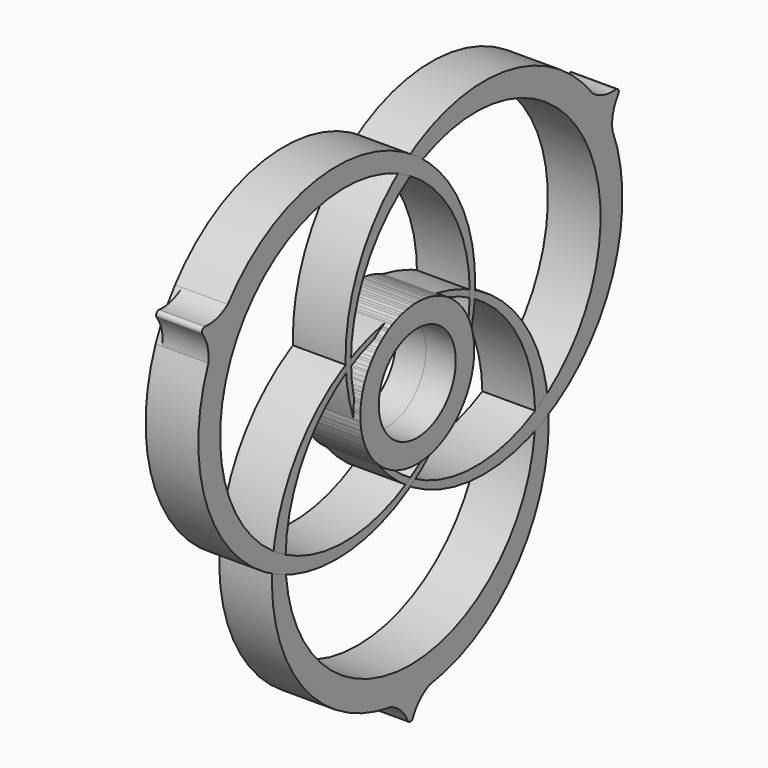
from build123d import *

# Parameters (mm, degrees)
F0_R          = 10.5
F1_DEPTH      = 6.5
F1_DEPTH_BACK = 6.5
F2_DEPTH      = 5
F2_DEPTH_BACK = 6.5
F3_DEPTH      = 5
F3_DEPTH_BACK = 5
F4_COUNT      = 3
F5_R          = 0.762


with BuildPart() as f1:
    # F0 (on Right) → F1 (new body, two sides)
    with BuildSketch(Plane.YZ) as f1_sk:
        with BuildLine():
            ThreePointArc((-9.903586, 11.961883), (-6.609432, -14.052866), (15.529573, 0))
            ThreePointArc((15.529573, 0), (14.052866, 6.609432), (9.903586, 11.961883))
            ThreePointArc((9.903586, 11.961883), (8.437863, 13.037259), (6.856513, 13.933983))
            ThreePointArc((6.856513, 13.933983), (0, 15.529573), (-6.856513, 13.933983))
            ThreePointArc((-6.856513, 13.933983), (-8.437863, 13.037259), (-9.903586, 11.961883))
        make_face()
        Circle(F0_R, mode=Mode.SUBTRACT)
    extrude(amount=F1_DEPTH)
    extrude(f1_sk.sketch, amount=-F1_DEPTH_BACK)

    # F0 (on Right) → F2 (join, two sides)
    with BuildSketch(Plane.YZ) as f2_sk:
        with BuildLine():
            ThreePointArc((6.856513, 13.933983), (8.437863, 13.037259), (9.903586, 11.961883))
            ThreePointArc((9.903586, 11.961883), (0, -54.62585), (-9.903586, 11.961883))
            ThreePointArc((-9.903586, 11.961883), (-8.437863, 13.037259), (-6.856513, 13.933983))
            ThreePointArc((-6.856513, 13.933983), (-37.731511, -23.967353), (-5.297871, -60.54379))
            ThreePointArc((-5.297871, -60.54379), (0, -60.917495), (5.297871, -60.54379))
            ThreePointArc((5.297871, -60.54379), (37.731511, -23.967353), (6.856513, 13.933983))
        make_face()
    extrude(amount=F2_DEPTH)
    extrude(f2_sk.sketch, amount=-F2_DEPTH_BACK)

    # F0 (on Right) → F3 (join, two sides)
    with BuildSketch(Plane.YZ) as f3_sk:
        with BuildLine():
            ThreePointArc((0, -67.642041), (1.675804, -63.366605), (5.297871, -60.54379))
            ThreePointArc((5.297871, -60.54379), (0, -60.917495), (-5.297871, -60.54379))
            ThreePointArc((-5.297871, -60.54379), (-1.675804, -63.366605), (0, -67.642041))
        make_face()
    extrude(amount=F3_DEPTH)
    extrude(f3_sk.sketch, amount=-F3_DEPTH_BACK)

    # F5
    f5_edges = [f1.edges().sort_by_distance(p)[0] for p in [
        (0, 0, -67.642041),
    ]]
    fillet(f5_edges, radius=F5_R)


with BuildPart() as f4_1:
    # F4: instance of F1
    add(f1.part.rotate(Axis((6.5, 0, 0), (1, 0, 0)), 1 * 360 / F4_COUNT))


with BuildPart() as f4_2:
    # F4: instance of F1
    add(f1.part.rotate(Axis((6.5, 0, 0), (1, 0, 0)), 2 * 360 / F4_COUNT))


solid = Compound([f1.part, f4_1.part, f4_2.part])
